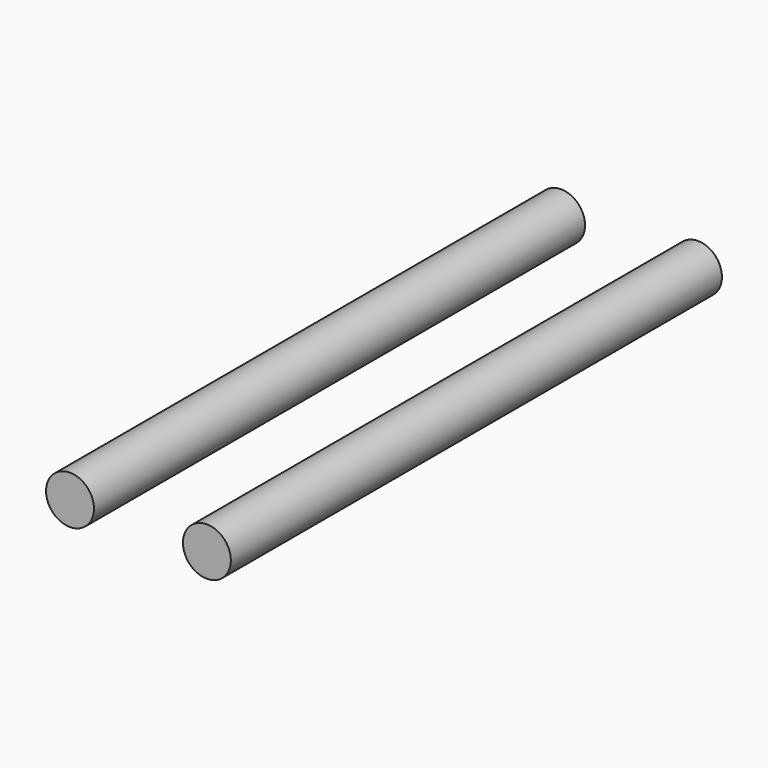
from build123d import *

# Parameters (mm, degrees)
F0_R     = 9.763048
F1_DEPTH = 250


with BuildPart() as f1:
    # F0 (on Front) → F1 (new body)
    with BuildSketch(Plane.XZ):
        Circle(F0_R)
        with Locations((-55.752363, 0.40206)):
            Circle(F0_R)
    extrude(amount=-F1_DEPTH)


solid = f1.part
